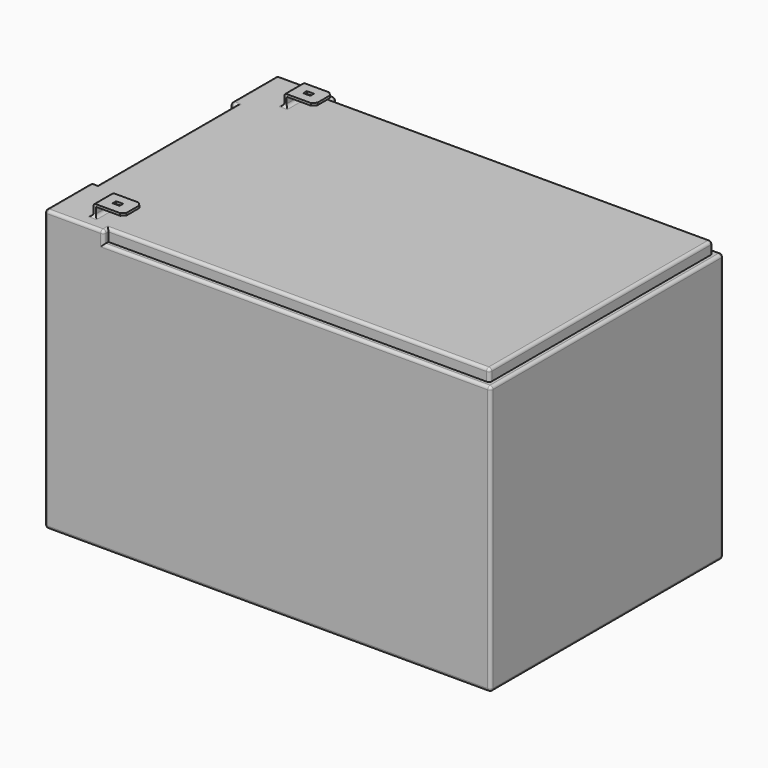
from build123d import *

# Parameters (mm, degrees)
F0_W      = 151
F0_H      = 98.5
F1_DEPTH  = 95
F2_W      = 2
F2_H      = 58.5
F3_DEPTH  = 4
F4_W      = 10.2
F4_H      = 7.8
F5_DEPTH  = 3.88
F7_DEPTH  = 93.501
F8_W      = 2.4
F8_H      = 1.5
F9_DEPTH  = 0.8
F10_W     = 2.4
F10_H     = 1.5
F11_DEPTH = 2
F12_SIZE  = 1.2
F13_R     = 0.7
F14_R     = 1


with BuildPart() as f1:
    # F0 (on Top) → F1 (new body)
    with BuildSketch(Plane.XY):
        Rectangle(F0_W, F0_H)
    extrude(amount=F1_DEPTH)

    # F2 (on face) → F3 (cut)
    with BuildSketch(Plane.XY.offset(95)):
        Polygon((-55.5, -47.25), (-55.5, -49.25), (75.5, -49.25), (75.5, 0), (73.5, 0), (73.5, -47.25), align=None)
        Polygon((75.5, 49.25), (-55.5, 49.25), (-55.5, 47.25), (73.5, 47.25), (73.5, 0), (75.5, 0), align=None)
        with Locations((-74.5, 0)):
            Rectangle(F2_W, F2_H)
    extrude(amount=-F3_DEPTH, mode=Mode.SUBTRACT)

    # F4 (on face) → F5 (join)
    with BuildSketch(Plane.XY.offset(95)):
        with Locations((-57.8, -40.35)):
            Rectangle(F4_W, F4_H)
        with Locations((-57.8, 40.35)):
            Rectangle(F4_W, F4_H)
    extrude(amount=F5_DEPTH)

    # F6 (on face) → F7 (cut, through all)
    with BuildSketch(Plane.XZ.offset(44.25)):
        with BuildLine():
            Line((-62.1, 97.78), (-62.1, 95))
            Line((-62.1, 95), (-52.7, 95))
            Line((-52.7, 95), (-52.7, 98.08))
            Line((-52.7, 98.08), (-61.8, 98.08))
            ThreePointArc((-61.8, 98.08), (-62.0121320344, 97.9921320344), (-62.1, 97.78))
        make_face()
    extrude(amount=-F7_DEPTH, mode=Mode.SUBTRACT)

    # F8 (on face) → F9 (cut, through all)
    with BuildSketch(Plane.XY.offset(98.88)):
        with Locations((-57.8, 40.35)):
            Rectangle(F8_W, F8_H)
    extrude(amount=-F9_DEPTH, mode=Mode.SUBTRACT)

    # F10 (on face) → F11 (cut)
    with BuildSketch(Plane.XY.offset(98.88)):
        with Locations((-57.8, -40.35)):
            Rectangle(F10_W, F10_H)
    extrude(amount=-F11_DEPTH, mode=Mode.SUBTRACT)

    # F12
    f12_edges = [f1.edges().sort_by_distance(p)[0] for p in [
        (-52.7, -44.25, 98.48),
        (-52.7, -36.45, 98.48),
        (-52.7, 36.45, 98.48),
        (-52.7, 44.25, 98.48),
    ]]
    chamfer(f12_edges, length=F12_SIZE)

    # F13
    f13_edges = [f1.edges().sort_by_distance(p)[0] for p in [
        (-62.9, -40.35, 98.88),
        (-62.9, 40.35, 98.88),
    ]]
    fillet(f13_edges, radius=F13_R)

    # F14
    f14_edges = [f1.edges().sort_by_distance(p)[0] for p in [
        (73.5, 0, 95),
        (9, 47.25, 95),
        (10, 49.25, 91),
        (75.5, 0, 91),
        (75.5, 49.25, 45.5),
        (73.5, 47.25, 93),
        (75.5, -49.25, 45.5),
        (75.5, 0, 0),
        (0, 49.25, 0),
        (-75.5, 49.25, 47.5),
        (-65.5, 49.25, 95),
        (-55.5, 48.25, 95),
        (-55.5, 49.25, 93),
        (-75.5, 39.25, 95),
        (-73.5, 0, 95),
        (-75.5, 0, 91),
        (-75.5, -39.25, 95),
        (-65.5, -49.25, 95),
        (9, -47.25, 95),
        (-75.5, 0, 0),
        (-75.5, -49.25, 47.5),
        (0, -49.25, 0),
        (10, -49.25, 91),
        (-55.5, -49.25, 93),
        (73.5, -47.25, 93),
        (-75.5, -29.25, 93),
        (-75.5, 29.25, 93),
        (-74.5, 29.25, 95),
        (-62.5, 44.25, 95),
        (-62.1, 40.35, 95),
        (-62.5, 36.45, 95),
        (-62.9, 40.35, 95),
        (-62.5, -36.45, 95),
        (-62.1, -40.35, 95),
        (-62.5, -44.25, 95),
        (-62.9, -40.35, 95),
        (-74.5, -29.25, 95),
        (-55.5, -48.25, 95),
    ]]
    fillet(f14_edges, radius=F14_R)


solid = f1.part
